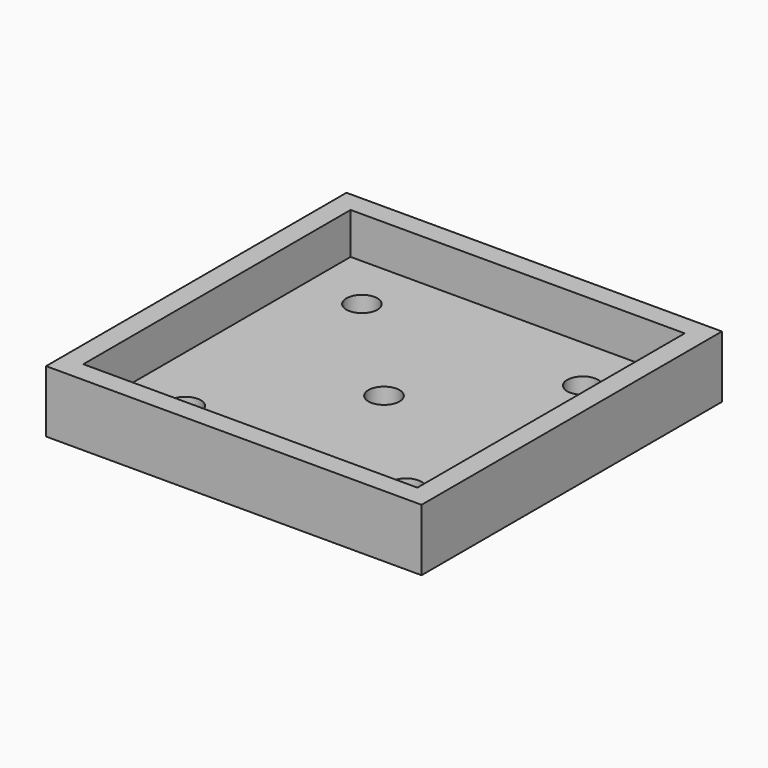
from build123d import *

# Parameters (mm, degrees)
F0_W     = 57.658
F0_H     = 57.658
F0_R     = 2.38125
F1_DEPTH = 3.175
F2_W     = 57.658
F2_H     = 57.658
F2_W_2   = 51.308
F2_H_2   = 51.308
F3_DEPTH = 6.35


with BuildPart() as f1:
    # F0 (on Top) → F1 (new body)
    with BuildSketch(Plane.XY):
        Rectangle(F0_W, F0_H)
        with Locations((-16.954627, -16.954627)):
            Circle(F0_R, mode=Mode.SUBTRACT)
        Circle(F0_R, mode=Mode.SUBTRACT)
        with Locations((16.954627, -16.954627)):
            Circle(F0_R, mode=Mode.SUBTRACT)
        with Locations((-16.954627, 16.954627)):
            Circle(F0_R, mode=Mode.SUBTRACT)
        with Locations((16.954627, 16.954627)):
            Circle(F0_R, mode=Mode.SUBTRACT)
    extrude(amount=F1_DEPTH)

    # F2 (on face) → F3 (join)
    with BuildSketch(Plane.XY.offset(3.175)):
        Rectangle(F2_W, F2_H)
        Rectangle(F2_W_2, F2_H_2, mode=Mode.SUBTRACT)
    extrude(amount=F3_DEPTH)


solid = f1.part
